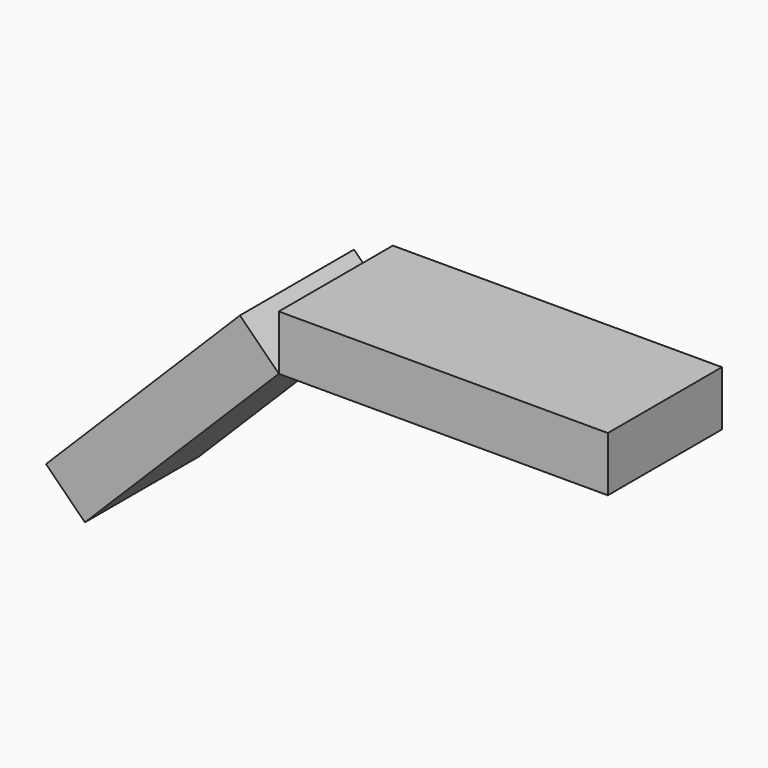
from build123d import *

# Parameters (mm, degrees)
F1_W     = 100
F1_H     = 20
F2_DEPTH = 52
F0_W     = 120
F0_H     = 20
F3_ANGLE = 45
F4_ANGLE = 180


with BuildPart() as f2:
    # F1 (on Front) → F2 (new body)
    with BuildSketch(Plane.XZ):
        with Locations((-118.7792375684, 1.1723788828)):
            Rectangle(F1_W, F1_H)
    extrude(amount=F2_DEPTH)


with BuildPart() as f2b:
    # F0 (on Front) → F2, piece 2 (new body)
    with BuildSketch(Plane.XZ):
        with Locations((-8.7792375684, 1.1723788828)):
            Rectangle(F0_W, F0_H)
    extrude(amount=F2_DEPTH)


with BuildPart() as f2_1:
    # F3: moved
    add(f2.part.rotate(Axis((-68.7792375684, -26, 11.1723788828), (0, 1, 0)), F3_ANGLE))


with BuildPart() as f2_2:
    # F4: moved
    add(f2_1.part.rotate(Axis((-8.7792375684, -52, 11.1723788828), (-1, 0, 0)), F4_ANGLE))


with BuildPart() as f2b_1:
    # F4: moved
    add(f2b.part.rotate(Axis((-8.7792375684, -52, 11.1723788828), (-1, 0, 0)), F4_ANGLE))


solid = Compound([f2_2.part, f2b_1.part])
